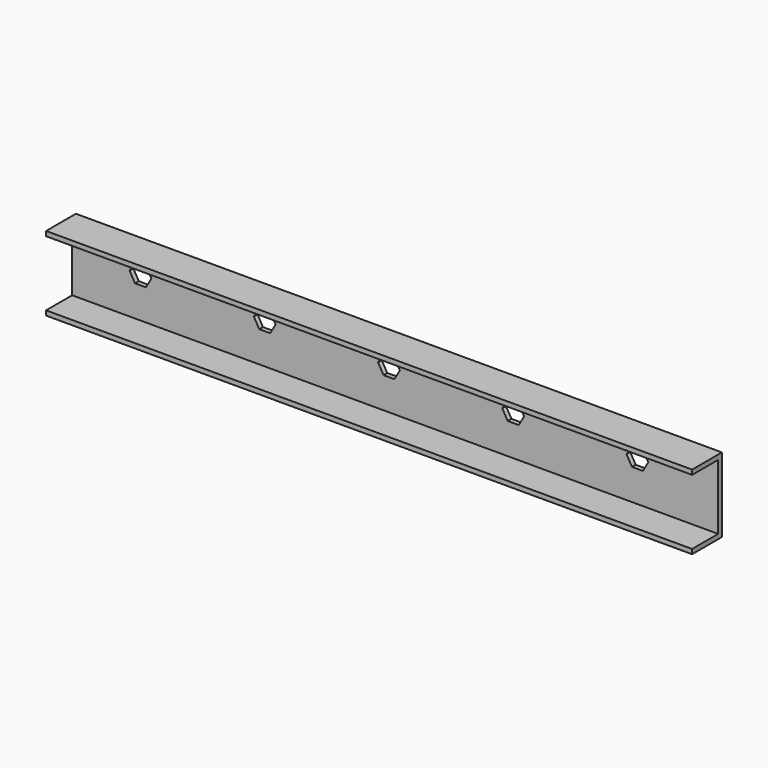
from build123d import *

# Parameters (mm, degrees)
F0_W     = 660.4
F0_H     = 76.2
F1_DEPTH = 38.1
F2_W     = 660.4
F2_H     = 66.675
F3_DEPTH = 33.3375
F5_DEPTH = 25.4


with BuildPart() as f1:
    # F0 (on Front) → F1 (new body)
    with BuildSketch(Plane.XZ):
        with Locations((-11.768971, -10.047171)):
            Rectangle(F0_W, F0_H)
    extrude(amount=-F1_DEPTH)

    # F2 (on face) → F3 (cut)
    with BuildSketch(Plane.XZ):
        with Locations((-11.768971, -10.047171)):
            Rectangle(F2_W, F2_H)
    extrude(amount=-F3_DEPTH, mode=Mode.SUBTRACT)

    # F4 (on face) → F5 (cut)
    with BuildSketch(Plane.XZ.offset(-33.3375)):
        Polygon((-277.675221, 7.514036), (-283.231471, -2.109671), (-277.675221, -11.733378), (-266.562721, -11.733378), (-261.006471, -2.109671), (-266.562721, 7.514036), align=None)
        Polygon((-150.675221, 7.514036), (-156.231471, -2.109671), (-150.675221, -11.733378), (-139.562721, -11.733378), (-134.006471, -2.109671), (-139.562721, 7.514036), align=None)
        Polygon((-23.675221, 7.514036), (-29.231471, -2.109671), (-23.675221, -11.733378), (-12.562721, -11.733378), (-7.006471, -2.109671), (-12.562721, 7.514036), align=None)
        Polygon((103.324779, 7.514036), (97.768529, -2.109671), (103.324779, -11.733378), (114.437279, -11.733378), (119.993529, -2.109671), (114.437279, 7.514036), align=None)
        Polygon((230.324779, 7.514036), (224.768529, -2.109671), (230.324779, -11.733378), (241.437279, -11.733378), (246.993529, -2.109671), (241.437279, 7.514036), align=None)
    extrude(amount=-F5_DEPTH, mode=Mode.SUBTRACT)


solid = f1.part
